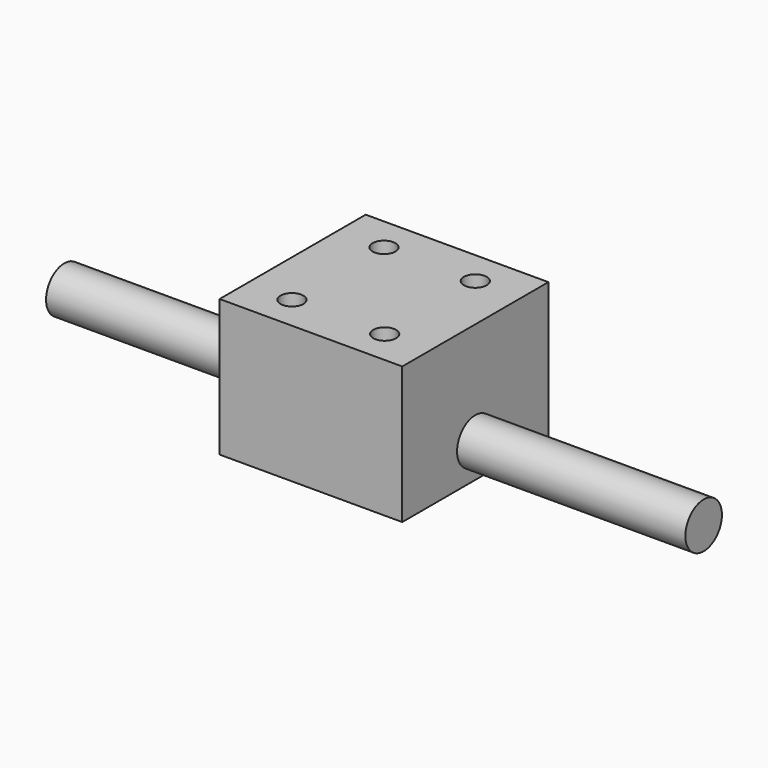
from build123d import *

# Parameters (mm, degrees)
F0_W     = 50.8
F0_H     = 50.8
F0_R     = 3.175
F1_DEPTH = 19.05
F3_R     = 6.35
F4_DEPTH = 88.9


with BuildPart() as f1:
    # F0 (on Top) → F1 (new body, symmetric)
    with BuildSketch(Plane.XY):
        Rectangle(F0_W, F0_H)
        with Locations((-12.888848, -15.875)):
            Circle(F0_R, mode=Mode.SUBTRACT)
        with Locations((12.888848, -15.875)):
            Circle(F0_R, mode=Mode.SUBTRACT)
        with Locations((-12.690556, 15.875)):
            Circle(F0_R, mode=Mode.SUBTRACT)
        with Locations((12.690556, 15.875)):
            Circle(F0_R, mode=Mode.SUBTRACT)
    extrude(amount=F1_DEPTH, both=True)

    # F2: F1 across plane


with BuildPart() as f1_1:
    add(f1.part)
    add(f1.part.mirror(Plane.YZ))


with BuildPart() as f4:
    # F3 (on Right) → F4 (new body, symmetric)
    with BuildSketch(Plane.YZ):
        with Locations((0, -9.525)):
            Circle(F3_R)
    extrude(amount=F4_DEPTH, both=True)


solid = Compound([f1_1.part, f4.part])
